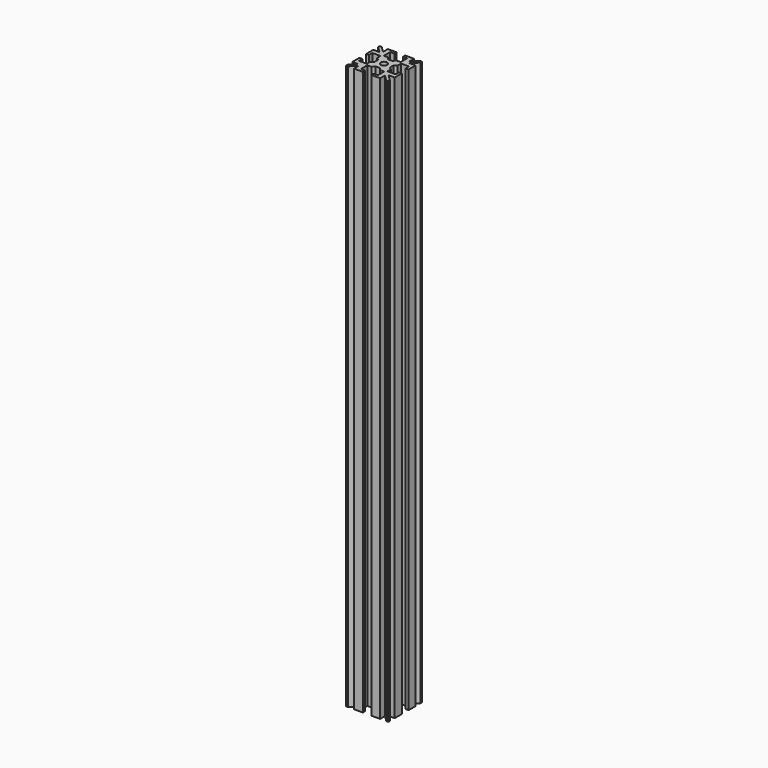
from build123d import *

# Parameters (mm, degrees)
F1_DEPTH = 200


with BuildPart() as f1:
    # F0 (on Top) → F1 (new body)
    with BuildSketch(Plane.XY):
        Polygon((-7.213021, 3.772741), (-7.213021, 0.642155), (-6.213021, 0.642155), (-6.213021, 2.142155), (-3.363021, 2.142155), (-3.363021, 0.642155), (-2.427844, -0.042959), (-2.427844, -0.857845), (-2.427844, -1.672731), (-3.363021, -2.357845), (-3.363021, -3.857845), (-6.213021, -3.857845), (-6.213021, -2.357845), (-7.213021, -2.357845), (-7.213021, -5.488431), (-5.050714, -5.488431), (-7.213021, -7.650738), (-7.213021, -8.357845), (-6.505915, -8.357845), (-4.343607, -6.195538), (-4.343607, -8.357845), (-1.213021, -8.357845), (-1.213021, -7.357845), (-2.713021, -7.357845), (-2.713021, -4.507845), (-1.213021, -4.507845), (-0.527908, -3.572668), (0.286979, -3.572668), (1.101865, -3.572668), (1.786979, -4.507845), (3.286979, -4.507845), (3.286979, -7.357845), (1.786979, -7.357845), (1.786979, -8.357845), (4.917565, -8.357845), (4.917565, -6.195538), (7.079872, -8.357845), (7.786979, -8.357845), (7.786979, -7.650738), (5.624671, -5.488431), (7.786979, -5.488431), (7.786979, -2.357845), (6.786979, -2.357845), (6.786979, -3.857845), (3.936979, -3.857845), (3.936979, -2.357845), (3.001801, -1.672731), (3.001801, -0.857845), (3.001801, -0.042959), (3.936979, 0.642155), (3.936979, 2.142155), (6.786979, 2.142155), (6.786979, 0.642155), (7.786979, 0.642155), (7.786979, 3.772741), (5.624671, 3.772741), (7.786979, 5.935048), (7.786979, 6.642155), (7.079872, 6.642155), (4.917565, 4.479848), (4.917565, 6.642155), (1.786979, 6.642155), (1.786979, 5.642155), (3.286979, 5.642155), (3.286979, 2.792155), (1.786979, 2.792155), (1.101865, 1.856978), (0.286979, 1.856978), (-0.527908, 1.856978), (-1.213021, 2.792155), (-2.713021, 2.792155), (-2.713021, 5.642155), (-1.213021, 5.642155), (-1.213021, 6.642155), (-4.343607, 6.642155), (-4.343607, 4.479848), (-6.505915, 6.642155), (-7.213021, 6.642155), (-7.213021, 5.935048), (-5.050714, 3.772741), align=None)
        with BuildLine():
            ThreePointArc((-0.863021, -0.857845), (-0.526194, -0.044672), (0.286979, 0.292155))
            ThreePointArc((0.286979, 0.292155), (1.100151, -0.044672), (1.436979, -0.857845))
            ThreePointArc((1.436979, -0.857845), (1.100151, -1.671018), (0.286979, -2.007845))
            ThreePointArc((0.286979, -2.007845), (-0.526194, -1.671018), (-0.863021, -0.857845))
        make_face(mode=Mode.SUBTRACT)
    extrude(amount=F1_DEPTH)


solid = f1.part
